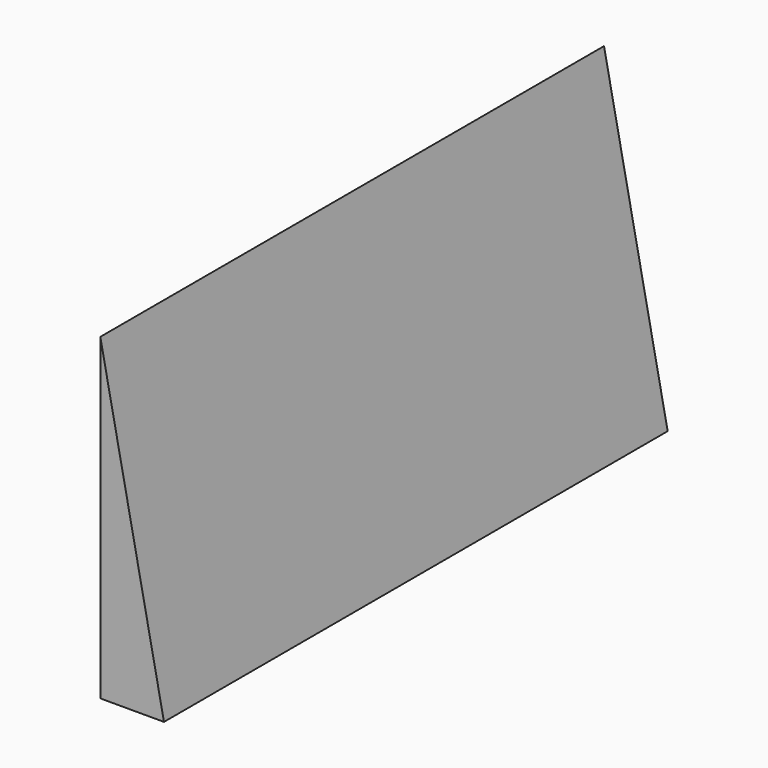
from build123d import *

# Parameters (mm, degrees)
F1_DEPTH = 502.412


with BuildPart() as f1:
    # F0 (on Front) → F1 (new body)
    with BuildSketch(Plane.XZ):
        Polygon((-76.2, 254), (-76.2, 0), (-25.4, 0), align=None)
        Polygon((-76.2, 254), (-76.2, 0), (-25.4, 0), align=None)
    extrude(amount=-F1_DEPTH)


solid = f1.part
